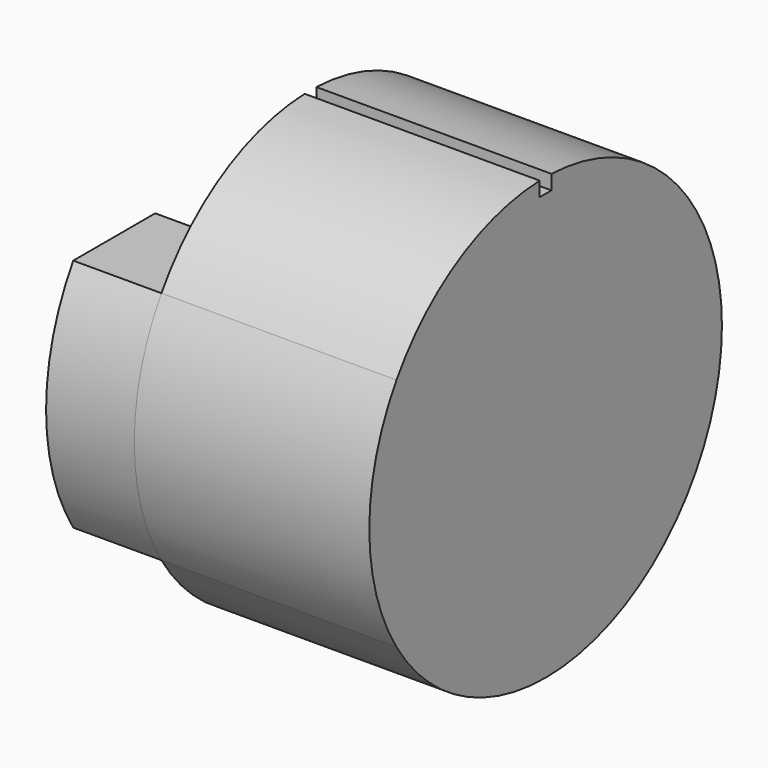
from build123d import *

# Parameters (mm, degrees)
F1_DEPTH = 3
F3_DEPTH = 8
F4_W     = 0.5
F4_H     = 0.5
F5_DEPTH = 25


with BuildPart() as f1:
    # F0 (on Right) → F1 (new body)
    with BuildSketch(Plane.YZ):
        with BuildLine():
            ThreePointArc((-5.0456, -0.210765), (-5.05, 0), (-5.0456, 0.210765))
            Line((-5.0456, 0.210765), (-2.857884, 4))
            Line((-2.857884, 4), (-6.344289, 4))
            ThreePointArc((-6.344289, 4), (-7.5, 0), (-6.344289, -4))
            Line((-6.344289, -4), (-2.857884, -4))
            Line((-2.857884, -4), (-5.0456, -0.210765))
        make_face()
        with BuildLine():
            Line((6.344289, 4), (2.857884, 4))
            Line((2.857884, 4), (5.0456, 0.210765))
            ThreePointArc((5.0456, 0.210765), (5.05, 0), (5.0456, -0.210765))
            Line((5.0456, -0.210765), (2.857884, -4))
            Line((2.857884, -4), (6.344289, -4))
            ThreePointArc((6.344289, -4), (7.5, 0), (6.344289, 4))
        make_face()
    extrude(amount=F1_DEPTH)


with BuildPart() as f3:
    # F2 (on face) → F3 (new body)
    with BuildSketch(Plane.YZ.offset(3)):
        with BuildLine():
            Line((-2.857884, 4), (-6.344289, 4))
            ThreePointArc((-6.344289, 4), (-7.5, 0), (-6.344289, -4))
            Line((-6.344289, -4), (-2.857884, -4))
            Line((-2.857884, -4), (-5.0456, -0.210765))
            ThreePointArc((-5.0456, -0.210765), (-5.05, 0), (-5.0456, 0.210765))
            Line((-5.0456, 0.210765), (-2.857884, 4))
        make_face()
        with BuildLine():
            ThreePointArc((-6.344289, -4), (2.081806, -7.205282), (7.5, 0))
            ThreePointArc((7.5, 0), (2.081806, 7.205282), (-6.344289, 4))
            Line((-6.344289, 4), (-2.857884, 4))
            Line((-2.857884, 4), (-5.0456, 0.210765))
            ThreePointArc((-5.0456, 0.210765), (-5.05, 0), (-5.0456, -0.210765))
            Line((-5.0456, -0.210765), (-2.857884, -4))
            Line((-2.857884, -4), (-6.344289, -4))
        make_face()
    extrude(amount=F3_DEPTH)

    # F4 (on face) → F5 (cut)
    with BuildSketch(Plane(origin=(3, 0, 0), x_dir=(0, -1, 0), z_dir=(-1, 0, 0))):
        with Locations((0, 7.25)):
            Rectangle(F4_W, F4_H)
    extrude(amount=-F5_DEPTH, mode=Mode.SUBTRACT)


solid = Compound([f1.part, f3.part])
